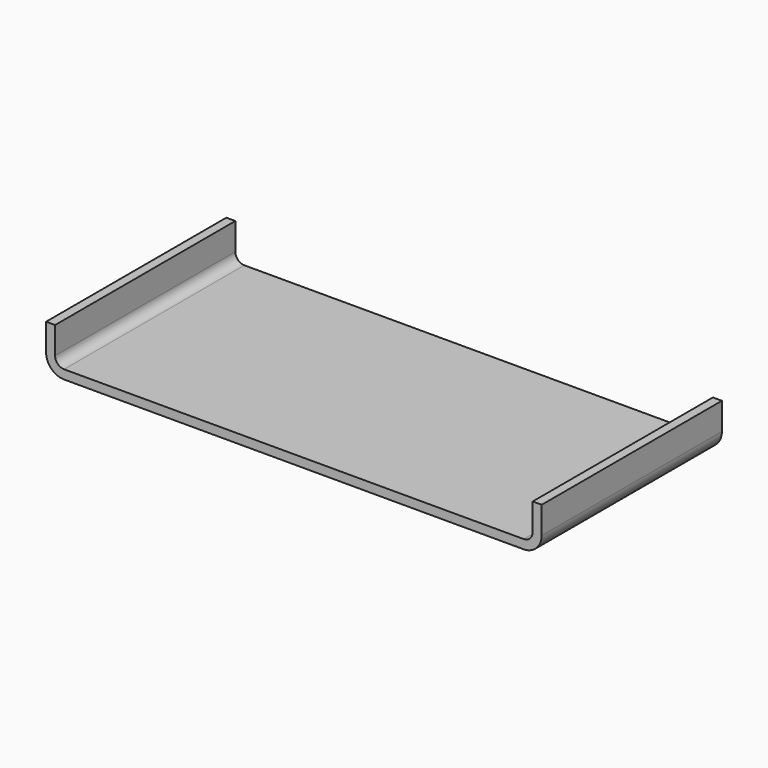
from build123d import *

# Parameters (mm, degrees)
F1_DEPTH = 25


with BuildPart() as f1:
    # F0 (on Front) → F1 (new body)
    with BuildSketch(Plane.XZ):
        with BuildLine():
            Line((-26.5, 5), (-27.5, 5))
            Line((-27.5, 5), (-27.5, 2))
            ThreePointArc((-27.5, 2), (-26.914214, 0.585786), (-25.5, 0))
            Line((-25.5, 0), (25.5, 0))
            ThreePointArc((25.5, 0), (26.914214, 0.585786), (27.5, 2))
            Line((27.5, 2), (27.5, 5))
            Line((27.5, 5), (26.5, 5))
            Line((26.5, 5), (26.5, 2))
            ThreePointArc((26.5, 2), (26.207107, 1.292893), (25.5, 1))
            Line((25.5, 1), (-25.5, 1))
            ThreePointArc((-25.5, 1), (-26.207107, 1.292893), (-26.5, 2))
            Line((-26.5, 2), (-26.5, 5))
        make_face()
    extrude(amount=-F1_DEPTH)


solid = f1.part
